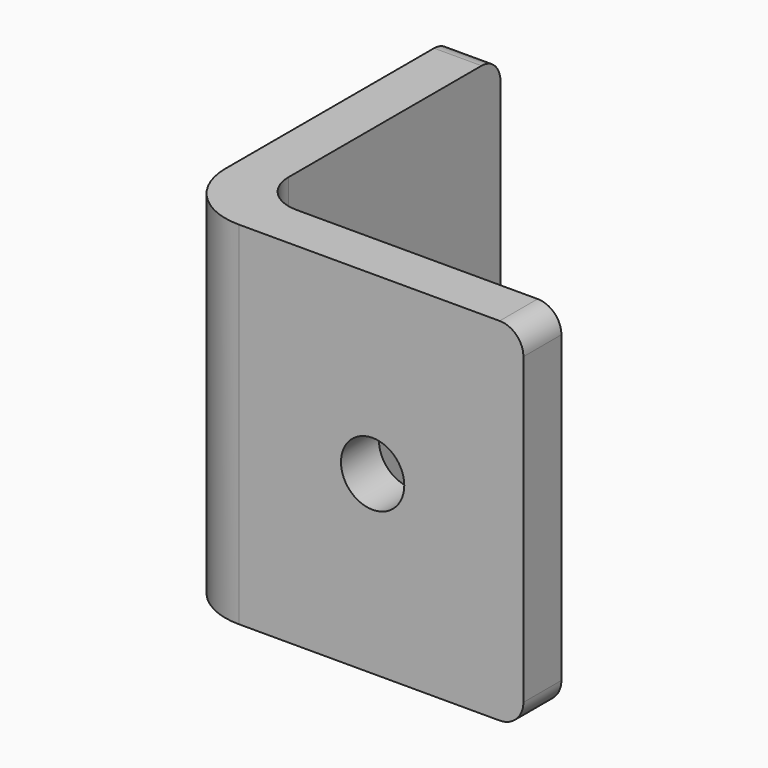
from build123d import *

# Parameters (mm, degrees)
F1_DEPTH = 44.45
F2_R     = 4
F3_DEPTH = 6
F4_R     = 4
F5_DEPTH = 6
F6_R     = 3


with BuildPart() as f1:
    # F0 (on Top) → F1 (new body)
    with BuildSketch(Plane.XY):
        with BuildLine():
            Line((6, 44.45), (0, 44.45))
            Line((0, 44.45), (0, 8.5))
            ThreePointArc((0, 8.5), (2.489592, 2.489592), (8.5, 0))
            Line((8.5, 0), (44.45, 0))
            Line((44.45, 0), (44.45, 6))
            Line((44.45, 6), (11, 6))
            ThreePointArc((11, 6), (7.464466, 7.464466), (6, 11))
            Line((6, 11), (6, 44.45))
        make_face()
    extrude(amount=F1_DEPTH)

    # F2 (on face) → F3 (cut, through all)
    with BuildSketch(Plane.YZ.offset(6)):
        with Locations((25.4, 22.225)):
            Circle(F2_R)
    extrude(amount=-F3_DEPTH, mode=Mode.SUBTRACT)

    # F4 (on face) → F5 (cut, through all)
    with BuildSketch(Plane.XZ):
        with Locations((25.4, 22.225)):
            Circle(F4_R)
    extrude(amount=-F5_DEPTH, mode=Mode.SUBTRACT)

    # F6
    f6_edges = [f1.edges().sort_by_distance(p)[0] for p in [
        (44.45, 3, 44.45),
        (44.45, 3, 0),
        (3, 44.45, 0),
        (3, 44.45, 44.45),
    ]]
    fillet(f6_edges, radius=F6_R)


solid = f1.part
